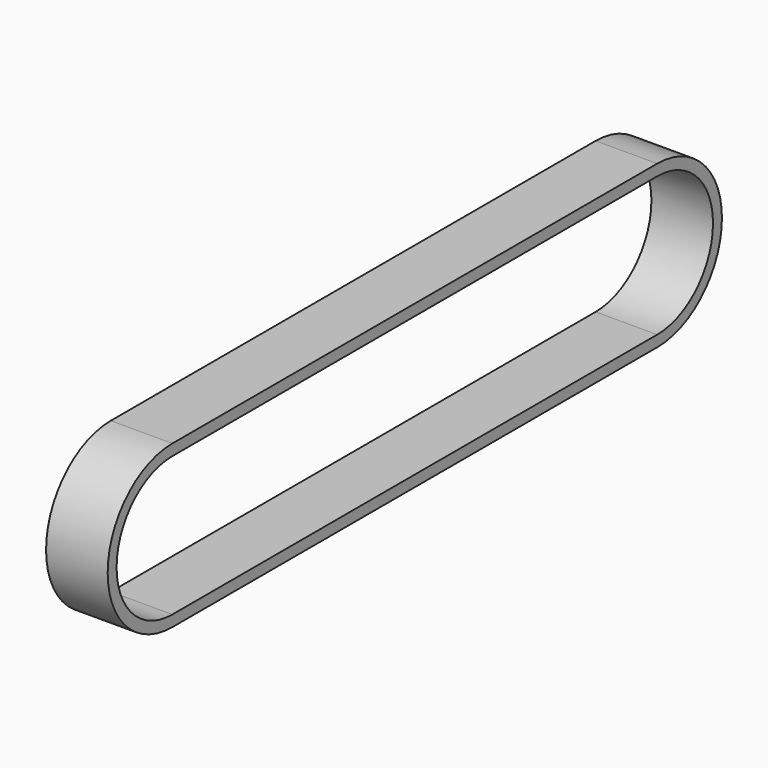
from build123d import *

# Parameters (mm, degrees)
F1_W = 6.35
F1_H = 1.15


with BuildPart() as f2:
    # F2: sweep along a path in F0
    with BuildLine(Plane.YZ) as f2_path:
        ThreePointArc((31.24, -7.7597), (38.9997, 0), (31.24, 7.7597))
        Line((31.24, 7.7597), (-31.24, 7.7597))
        ThreePointArc((-31.24, 7.7597), (-38.9997, 0), (-31.24, -7.7597))
        Line((-31.24, -7.7597), (31.24, -7.7597))
    # F1 (on Front) → F2 (sweep)
    with BuildSketch(Plane.XZ):
        with Locations((0, 7.7597)):
            Rectangle(F1_W, F1_H)
    sweep(path=f2_path.line)


solid = f2.part
